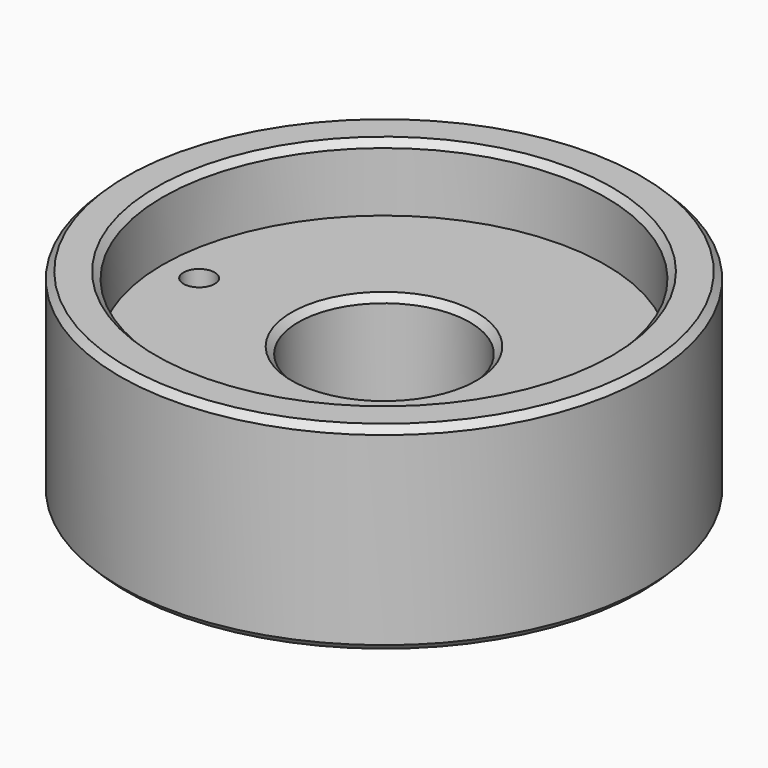
from build123d import *

# Parameters (mm, degrees)
F0_R     = 50.8
F1_DEPTH = 38.1
F2_R     = 42.5831
F3_DEPTH = 12.7
F4_R     = 16.51
F5_DEPTH = 25.401
F6_SIZE  = 1.27
F7_R     = 2.9972
F8_DEPTH = 25.401


with BuildPart() as f1:
    # F0 (on Top) → F1 (new body)
    with BuildSketch(Plane.XY):
        Circle(F0_R)
    extrude(amount=F1_DEPTH)

    # F2 (on face) → F3 (cut)
    with BuildSketch(Plane.XY.offset(38.1)):
        Circle(F2_R)
    extrude(amount=-F3_DEPTH, mode=Mode.SUBTRACT)

    # F4 (on face) → F5 (cut, through all)
    with BuildSketch(Plane.XY.offset(25.4)):
        Circle(F4_R)
    extrude(amount=-F5_DEPTH, mode=Mode.SUBTRACT)

    # F6
    f6_edges = [f1.edges().sort_by_distance(p)[0] for p in [
        (-42.5831, 0, 38.1),
        (-16.51, 0, 25.4),
        (-50.8, 0, 38.1),
        (-50.8, 0, 0),
    ]]
    chamfer(f6_edges, length=F6_SIZE)

    # F7 (on face) → F8 (cut, through all)
    with BuildSketch(Plane.XY.offset(25.4)):
        with Locations((35.56, 0)):
            Circle(F7_R)
        with Locations((-35.56, 0)):
            Circle(F7_R)
    extrude(amount=-F8_DEPTH, mode=Mode.SUBTRACT)


solid = f1.part
